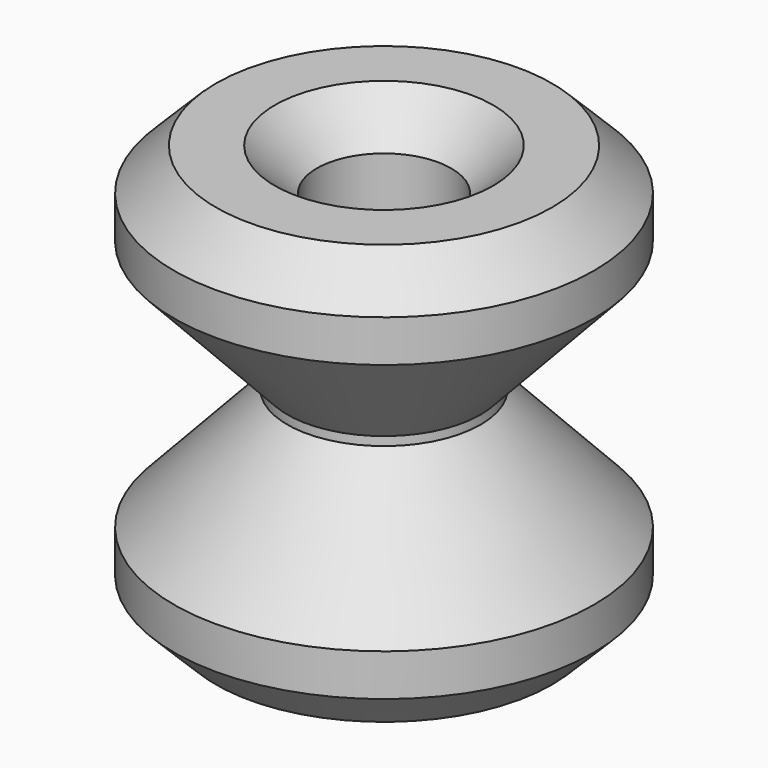
from build123d import *

# Parameters (mm, degrees)
F0_R     = 5
F0_R_2   = 1.6
F1_DEPTH = 10
F4_SIZE  = 1


with BuildPart() as f1:
    # F0 (on Top) → F1 (new body)
    with BuildSketch(Plane.XY):
        Circle(F0_R)
        Circle(F0_R_2, mode=Mode.SUBTRACT)
    extrude(amount=F1_DEPTH)

    # F2 (on Front) → F3 (revolve, cut)
    with BuildSketch(Plane.XZ):
        Polygon((5, 2), (5, 8), (2.3, 5.104604), (2.3, 4.895396), align=None)
    revolve(axis=Axis((0, 0, 10), (0, 0, 1)), mode=Mode.SUBTRACT)

    # F4
    f4_edges = [f1.edges().sort_by_distance(p)[0] for p in [
        (-5, 0, 10),
        (-5, 0, 0),
        (-1.6, 0, 10),
        (-1.6, 0, 0),
    ]]
    chamfer(f4_edges, length=F4_SIZE)


solid = f1.part
